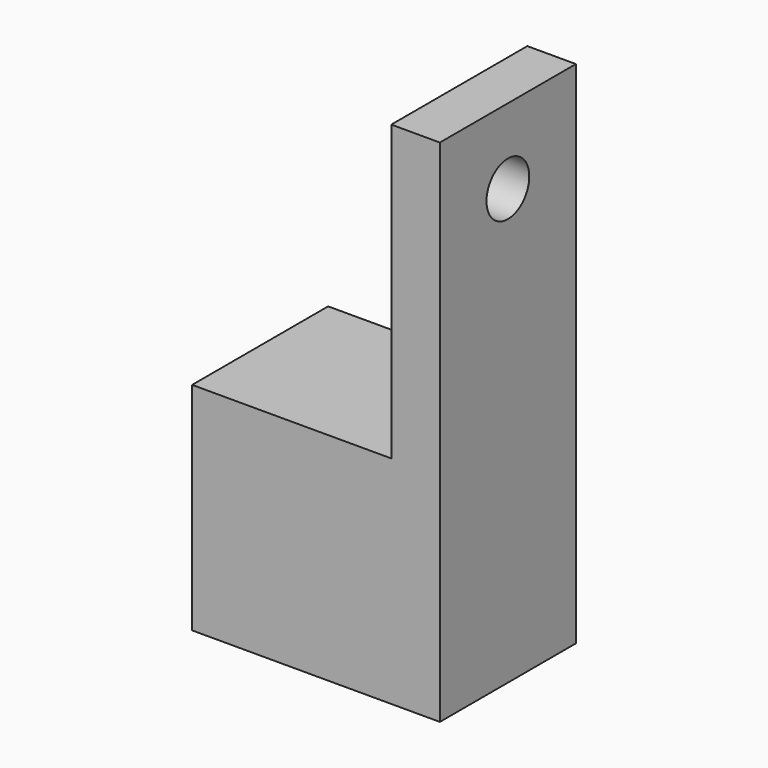
from build123d import *

# Parameters (mm, degrees)
CYLINDER054_R     = 1.1
CYLINDER054_DEPTH = 21
BOX010_W          = 2
BOX010_H          = 7
BOX010_DEPTH      = 21
BOX057_W          = 8.2
BOX057_H          = 7
BOX057_DEPTH      = 8.9


with BuildPart() as cylinder054:
    # Cylinder054 → Cylinder054 (new body)
    with BuildSketch(Plane(origin=(7, 18.5, 71), x_dir=(0, 0, -1), z_dir=(1, 0, 0))):
        Circle(CYLINDER054_R)
    extrude(amount=CYLINDER054_DEPTH)


with BuildPart() as cut042:
    # Box010 → Box010 (new body)
    with BuildSketch(Plane(origin=(12, 15, 53.1), x_dir=(1, 0, 0), z_dir=(0, 0, 1))):
        with Locations((1, 3.5)):
            Rectangle(BOX010_W, BOX010_H)
    extrude(amount=BOX010_DEPTH)

    # Cut042: cut Cylinder054
    add(cylinder054.part, mode=Mode.SUBTRACT)


with BuildPart() as cap:
    # Box057 → Box057 (new body)
    with BuildSketch(Plane(origin=(3.8, 15, 53.1), x_dir=(1, 0, 0), z_dir=(0, 0, 1))):
        with Locations((4.1, 3.5)):
            Rectangle(BOX057_W, BOX057_H)
    extrude(amount=BOX057_DEPTH)

    # Fusion040: union Cut042
    add(cut042.part)


solid = cap.part
